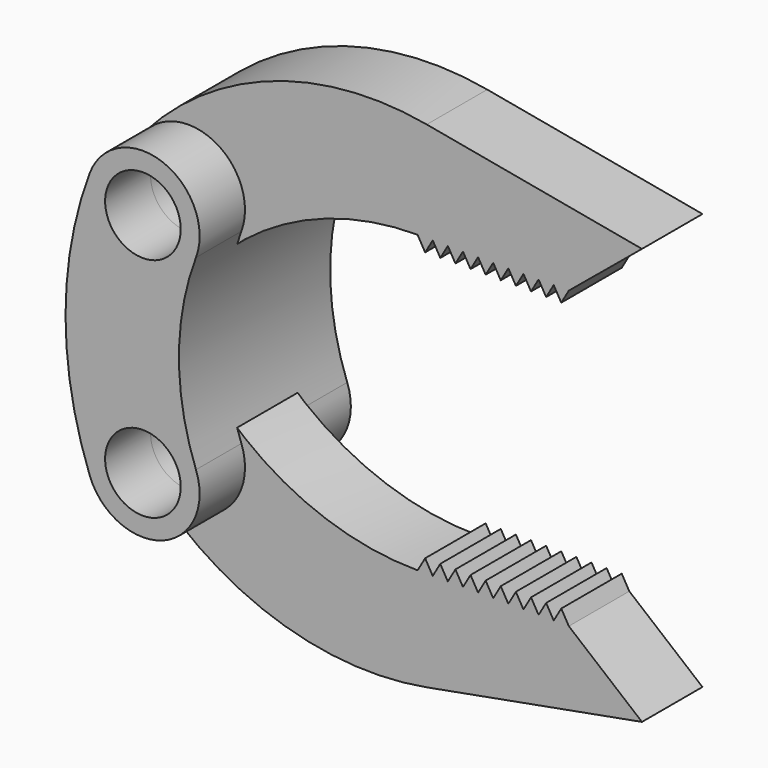
from build123d import *

# Parameters (mm, degrees)
F0_R     = 5
F2_DEPTH = 12.5
F1_R     = 5
F3_DEPTH = 5


with BuildPart() as f2:
    # F0 (on Front) → F2 (new body, symmetric)
    with BuildSketch(Plane.XZ):
        with BuildLine():
            ThreePointArc((7.017341, -12.352941), (4.764934, 0), (7.017341, 12.352941))
            ThreePointArc((7.017341, 12.352941), (2.647059, 22.017341), (-7.017341, 17.647059))
            ThreePointArc((-7.017341, 17.647059), (-10.235066, 0), (-7.017341, -17.647059))
            ThreePointArc((-7.017341, -17.647059), (2.647059, -22.017341), (7.017341, -12.352941))
        make_face()
        with Locations((0, -15)):
            Circle(F0_R, mode=Mode.SUBTRACT)
        with Locations((0, 15)):
            Circle(F0_R, mode=Mode.SUBTRACT)
    extrude(amount=F2_DEPTH, both=True)


with BuildPart() as f3:
    # F1 (on Front) → F3 (new body, symmetric)
    with BuildSketch(Plane.XZ):
        with BuildLine():
            ThreePointArc((31.534432, 32.766249), (11.284846, 31.246278), (-5.608991, 19.978877))
            ThreePointArc((-5.608991, 19.978877), (-5.224011, 9.618577), (5.143151, 9.541246))
            ThreePointArc((5.143151, 9.541246), (16.778966, 16.945849), (30.325638, 19.535829))
            Line((30.325638, 19.535829), (31.325638, 17.803778))
            Line((31.325638, 17.803778), (32.325638, 19.535829))
            Line((32.325638, 19.535829), (33.325638, 17.803778))
            Line((33.325638, 17.803778), (34.325638, 19.535829))
            Line((34.325638, 19.535829), (35.325638, 17.803778))
            Line((35.325638, 17.803778), (36.325638, 19.535829))
            Line((36.325638, 19.535829), (37.325638, 17.803778))
            Line((37.325638, 17.803778), (38.325638, 19.535829))
            Line((38.325638, 19.535829), (39.325638, 17.803778))
            Line((39.325638, 17.803778), (40.325638, 19.535829))
            Line((40.325638, 19.535829), (41.325638, 17.803778))
            Line((41.325638, 17.803778), (42.325638, 19.535829))
            Line((42.325638, 19.535829), (43.325638, 17.803778))
            Line((43.325638, 17.803778), (44.325638, 19.535829))
            Line((44.325638, 19.535829), (45.325638, 17.803778))
            Line((45.325638, 17.803778), (46.325638, 19.535829))
            Line((46.325638, 19.535829), (47.325638, 17.803778))
            Line((47.325638, 17.803778), (48.325638, 19.535829))
            Line((48.325638, 19.535829), (49.325638, 17.803778))
            Line((49.325638, 17.803778), (50.325638, 19.535829))
            Line((50.325638, 19.535829), (60, 27.535829))
            Line((60, 27.535829), (31.534432, 32.766249))
        make_face()
        with Locations((0, 15)):
            Circle(F1_R, mode=Mode.SUBTRACT)
        with BuildLine():
            ThreePointArc((30.325638, -19.535829), (16.778966, -16.945849), (5.143151, -9.541246))
            ThreePointArc((5.143151, -9.541246), (-5.224011, -9.618577), (-5.608991, -19.978877))
            ThreePointArc((-5.608991, -19.978877), (11.284846, -31.246278), (31.534432, -32.766249))
            Line((31.534432, -32.766249), (60, -27.535829))
            Line((60, -27.535829), (50.325638, -19.535829))
            Line((50.325638, -19.535829), (49.325638, -17.803778))
            Line((49.325638, -17.803778), (48.325638, -19.535829))
            Line((48.325638, -19.535829), (47.325638, -17.803778))
            Line((47.325638, -17.803778), (46.325638, -19.535829))
            Line((46.325638, -19.535829), (45.325638, -17.803778))
            Line((45.325638, -17.803778), (44.325638, -19.535829))
            Line((44.325638, -19.535829), (43.325638, -17.803778))
            Line((43.325638, -17.803778), (42.325638, -19.535829))
            Line((42.325638, -19.535829), (41.325638, -17.803778))
            Line((41.325638, -17.803778), (40.325638, -19.535829))
            Line((40.325638, -19.535829), (39.325638, -17.803778))
            Line((39.325638, -17.803778), (38.325638, -19.535829))
            Line((38.325638, -19.535829), (37.325638, -17.803778))
            Line((37.325638, -17.803778), (36.325638, -19.535829))
            Line((36.325638, -19.535829), (35.325638, -17.803778))
            Line((35.325638, -17.803778), (34.325638, -19.535829))
            Line((34.325638, -19.535829), (33.325638, -17.803778))
            Line((33.325638, -17.803778), (32.325638, -19.535829))
            Line((32.325638, -19.535829), (31.325638, -17.803778))
            Line((31.325638, -17.803778), (30.325638, -19.535829))
        make_face()
        with Locations((0, -15)):
            Circle(F1_R, mode=Mode.SUBTRACT)
    extrude(amount=F3_DEPTH, both=True)


solid = Compound([f2.part, f3.part])
